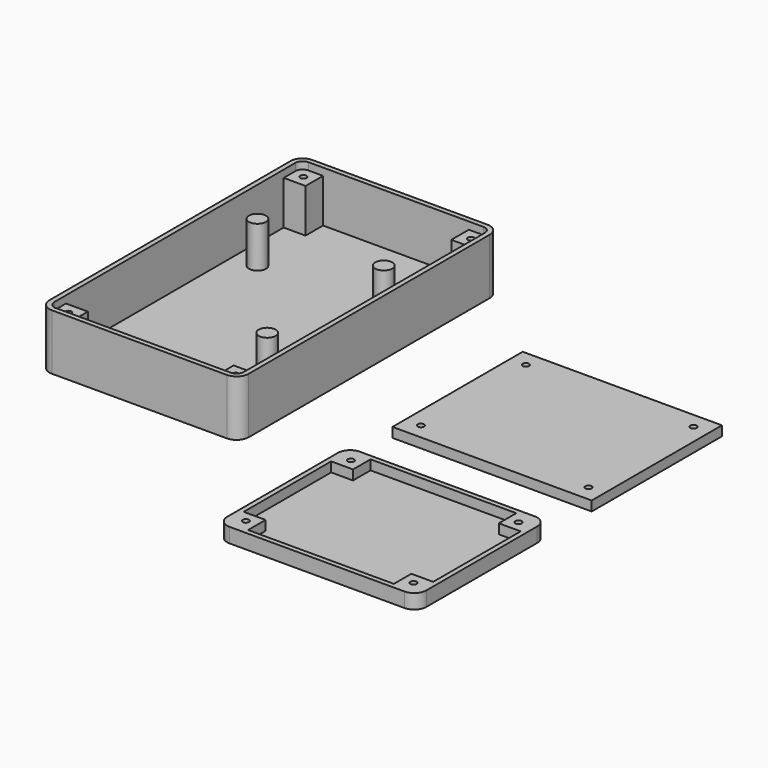
from build123d import *

# Parameters (mm, degrees)
F1_DEPTH  = 23
F2_T      = -2
F3_W      = 9
F3_H      = 9
F4_DEPTH  = 18
F3_R      = 3.5
F5_DEPTH  = 17
F6_DEPTH  = 2
F7_R      = 1.3
F8_DEPTH  = 18
F9_W      = 82
F9_H      = 67
F10_DEPTH = 4
F11_DEPTH = 6
F12_T     = -2
F13_R     = 1.3
F14_DEPTH = 3
F15_W     = 9
F15_H     = 9
F15_R     = 1.3
F16_DEPTH = 4


with BuildPart() as f1:
    # F0 (on Top) → F1 (new body)
    with BuildSketch(Plane.XY):
        with BuildLine():
            Line((-36, -67), (36, -67))
            ThreePointArc((36, -67), (39.535534, -65.535534), (41, -62))
            Line((41, -62), (41, 62))
            ThreePointArc((41, 62), (39.535534, 65.535534), (36, 67))
            Line((36, 67), (-36, 67))
            ThreePointArc((-36, 67), (-39.535534, 65.535534), (-41, 62))
            Line((-41, 62), (-41, -62))
            ThreePointArc((-41, -62), (-39.535534, -65.535534), (-36, -67))
        make_face()
    extrude(amount=F1_DEPTH)

    # F2
    f2_openings = [f1.faces().sort_by_distance(p)[0] for p in [
        (0, 0, 23),
    ]]
    offset(amount=F2_T, openings=f2_openings)

    # F3 (on face) → F4 (join)
    with BuildSketch(Plane.XY.offset(2)):
        with Locations((-34.5, 60.5)):
            Rectangle(F3_W, F3_H)
        with Locations((34.5, 60.5)):
            Rectangle(F3_W, F3_H)
        with Locations((-34.5, -60.5)):
            Rectangle(F3_W, F3_H)
        with Locations((34.5, -60.5)):
            Rectangle(F3_W, F3_H)
    extrude(amount=F4_DEPTH)

    # F3 (on face) → F5 (join)
    with BuildSketch(Plane.XY.offset(2)):
        with Locations((-29, 30)):
            Circle(F3_R)
        with Locations((23, 30)):
            Circle(F3_R)
        with Locations((23, -30)):
            Circle(F3_R)
    extrude(amount=F5_DEPTH)

    # F3 (on face) → F6 (cut)
    with BuildSketch(Plane.XY.offset(2)):
        with BuildLine():
            ThreePointArc((15.5, 3.5), (18, 1), (20.5, 3.5))
            Line((20.5, 3.5), (20.5, 10.5))
            ThreePointArc((20.5, 10.5), (18, 13), (15.5, 10.5))
            Line((15.5, 10.5), (15.5, 3.5))
        make_face()
    extrude(amount=-F6_DEPTH, mode=Mode.SUBTRACT)

    # F7 (on face) → F8 (cut)
    with BuildSketch(Plane.XY.offset(20)):
        with Locations((-34.5, 60.5)):
            Circle(F7_R)
        with Locations((-34.5, -60.5)):
            Circle(F7_R)
        with Locations((34.5, 60.5)):
            Circle(F7_R)
        with Locations((34.5, -60.5)):
            Circle(F7_R)
    extrude(amount=-F8_DEPTH, mode=Mode.SUBTRACT)


with BuildPart() as f10:
    # F9 (on Top) → F10 (new body)
    with BuildSketch(Plane.XY):
        with Locations((118.379401, 0)):
            Rectangle(F9_W, F9_H)
    extrude(amount=F10_DEPTH)

    # F13 (on face) → F14 (cut)
    with BuildSketch(Plane.XY.offset(4)):
        with Locations((83.879401, 27)):
            Circle(F13_R)
        with Locations((152.879401, 27)):
            Circle(F13_R)
        with Locations((83.879401, -27)):
            Circle(F13_R)
        with Locations((152.879401, -27)):
            Circle(F13_R)
    extrude(amount=-F14_DEPTH, mode=Mode.SUBTRACT)


with BuildPart() as f11:
    # F9 (on Top) → F11 (new body)
    with BuildSketch(Plane.XY):
        with BuildLine():
            Line((82.379401, -123.542584), (154.379401, -123.542584))
            ThreePointArc((154.379401, -123.542584), (157.914935, -122.078118), (159.379401, -118.542584))
            Line((159.379401, -118.542584), (159.379401, -61.542584))
            ThreePointArc((159.379401, -61.542584), (157.914935, -58.00705), (154.379401, -56.542584))
            Line((154.379401, -56.542584), (82.379401, -56.542584))
            ThreePointArc((82.379401, -56.542584), (78.843868, -58.00705), (77.379401, -61.542584))
            Line((77.379401, -61.542584), (77.379401, -118.542584))
            ThreePointArc((77.379401, -118.542584), (78.843868, -122.078118), (82.379401, -123.542584))
        make_face()
    extrude(amount=F11_DEPTH)

    # F12
    f12_openings = [f11.faces().sort_by_distance(p)[0] for p in [
        (118.379401, -90.042584, 6),
    ]]
    offset(amount=F12_T, openings=f12_openings)

    # F15 (on face) → F16 (join)
    with BuildSketch(Plane.XY.offset(2)):
        with Locations((83.879401, -117.042584)):
            Rectangle(F15_W, F15_H)
        with Locations((83.879401, -117.042584)):
            Circle(F15_R, mode=Mode.SUBTRACT)
        with Locations((83.879401, -63.042584)):
            Rectangle(F15_W, F15_H)
        with Locations((83.879401, -63.042584)):
            Circle(F15_R, mode=Mode.SUBTRACT)
        with Locations((152.879401, -63.042584)):
            Rectangle(F15_W, F15_H)
        with Locations((152.879401, -63.042584)):
            Circle(F15_R, mode=Mode.SUBTRACT)
        with Locations((152.879401, -117.042584)):
            Rectangle(F15_W, F15_H)
        with Locations((152.879401, -117.042584)):
            Circle(F15_R, mode=Mode.SUBTRACT)
    extrude(amount=F16_DEPTH)


solid = Compound([f1.part, f10.part, f11.part])
